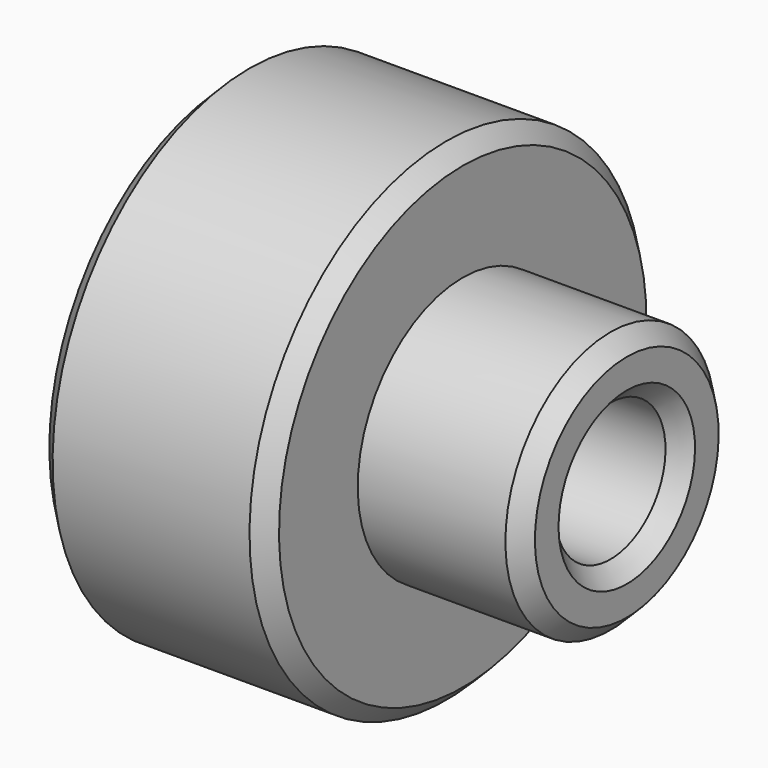
from build123d import *

# Parameters (mm, degrees)
F2_SIZE = 0.5


with BuildPart() as f1:
    # F0 (on Front) → F1 (revolve)
    with BuildSketch(Plane.XZ):
        Polygon((0, 4), (0, 2.1), (14, 2.1), (14, 4), (9, 4), (9, 7.5), (2, 7.5), (2, 4), align=None)
    revolve(axis=Axis((9.418666, 0, 0), (1, 0, 0)))

    # F2
    f2_edges = [f1.edges().sort_by_distance(p)[0] for p in [
        (9, 0, -7.5),
        (2, 0, -7.5),
        (5.5, 0, 7.5),
        (0, 0, -2.1),
        (14, 0, -2.1),
        (7, 0, 2.1),
        (14, 0, -4),
        (0, 0, -4),
    ]]
    chamfer(f2_edges, length=F2_SIZE)


solid = f1.part
